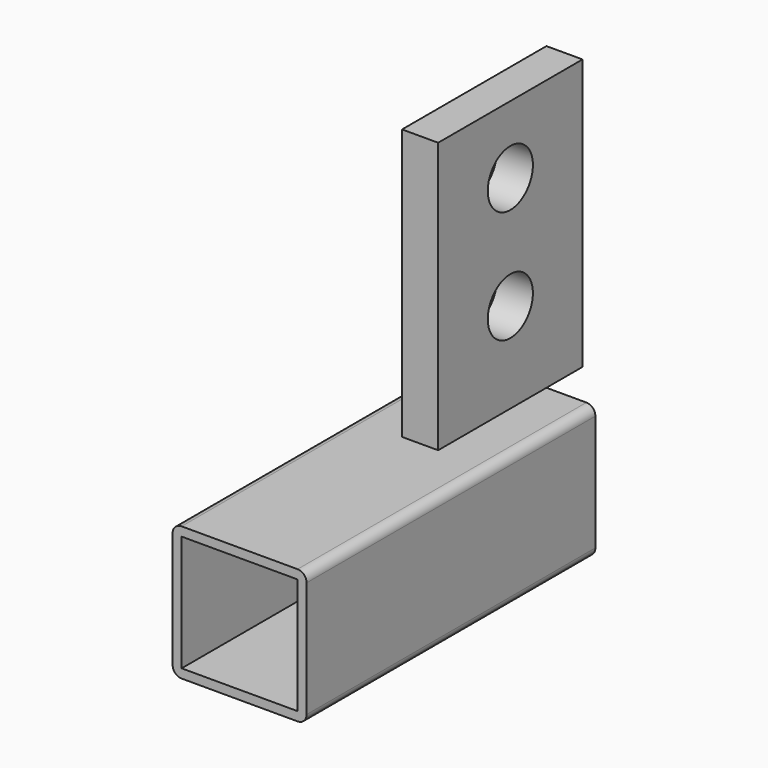
from build123d import *

# Parameters (mm, degrees)
F0_W     = 25.7
F0_H     = 25.7
F1_DEPTH = 80
F2_W     = 8
F2_H     = 30
F2_H_2   = 10
F3_DEPTH = 60
F4_R     = 6.25
F5_DEPTH = 25


with BuildPart() as f1:
    # F0 (on Front) → F1 (new body)
    with BuildSketch(Plane.XZ):
        with BuildLine():
            Line((-12.85, -14.85), (12.85, -14.85))
            ThreePointArc((12.85, -14.85), (14.264214, -14.264214), (14.85, -12.85))
            Line((14.85, -12.85), (14.85, 12.85))
            ThreePointArc((14.85, 12.85), (14.264214, 14.264214), (12.85, 14.85))
            Line((12.85, 14.85), (-12.85, 14.85))
            ThreePointArc((-12.85, 14.85), (-14.264214, 14.264214), (-14.85, 12.85))
            Line((-14.85, 12.85), (-14.85, -12.85))
            ThreePointArc((-14.85, -12.85), (-14.264214, -14.264214), (-12.85, -14.85))
        make_face()
        Rectangle(F0_W, F0_H, mode=Mode.SUBTRACT)
    extrude(amount=F1_DEPTH)

    # F2 (on face) → F3 (join)
    with BuildSketch(Plane.XY.offset(14.85)):
        with Locations((0, -15)):
            Rectangle(F2_W, F2_H)
        with Locations((0, 5)):
            Rectangle(F2_W, F2_H_2)
    extrude(amount=F3_DEPTH)

    # F4 (on face) → F5 (cut)
    with BuildSketch(Plane.YZ.offset(4)):
        with Locations((-10, 34.85)):
            Circle(F4_R)
        with Locations((-10, 59.85)):
            Circle(F4_R)
    extrude(amount=-F5_DEPTH, mode=Mode.SUBTRACT)


solid = f1.part
